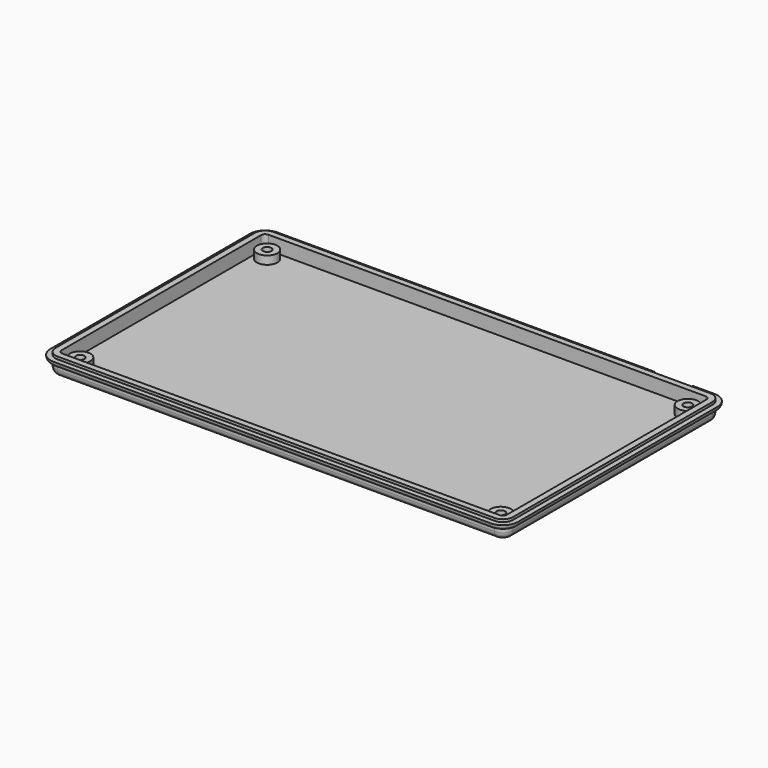
from build123d import *

# Parameters (mm, degrees)
PAD_DEPTH       = 5.5
FILLET_R        = 2
SKETCH001_R     = 1.25
POCKET_DEPTH    = 5.501
POCKET001_DEPTH = 4
SKETCH003_R     = 3
SKETCH003_R_2   = 1.25
PAD001_DEPTH    = 2.4
SKETCH004_R     = 2.25
POCKET002_DEPTH = 1.5
SKETCH005_R     = 6.25
POCKET003_DEPTH = 0.8
PAD012_DEPTH    = 1.5
FILLET004_R     = 1.4


with BuildPart() as part:
    # Sketch → Pad (new body)
    with BuildSketch(Plane.XY.offset(0.8)):
        with BuildLine():
            Line((18.151766, -21.733802), (18.151766, -94.733802))
            ThreePointArc((18.151766, -94.733802), (19.030446, -96.855123), (21.151766, -97.733802))
            Line((21.151766, -97.733802), (149.151766, -97.733802))
            ThreePointArc((149.151766, -97.733802), (151.273086, -96.855123), (152.151766, -94.733802))
            Line((152.151766, -94.733802), (152.151766, -21.733802))
            ThreePointArc((152.151766, -21.733802), (151.273086, -19.612482), (149.151766, -18.733802))
            Line((149.151766, -18.733802), (21.151766, -18.733802))
            ThreePointArc((21.151766, -18.733802), (19.030446, -19.612482), (18.151766, -21.733802))
        make_face()
    extrude(amount=-PAD_DEPTH)

    # Fillet
    fillet_edges = [part.edges().sort_by_distance(p)[0] for p in [
        (85.151766, -97.733802, -4.7),
    ]]
    fillet(fillet_edges, radius=FILLET_R)

    # Sketch001 (on Face4 of Fillet) → Pocket (cut, through all)
    with BuildSketch(Plane.XY.offset(0.8)):
        with Locations((23.556766, -24.019802)):
            Circle(SKETCH001_R)
        with Locations((146.746766, -24.019802)):
            Circle(SKETCH001_R)
        with Locations((146.746766, -92.447802)):
            Circle(SKETCH001_R)
        with Locations((23.556766, -92.447802)):
            Circle(SKETCH001_R)
    extrude(amount=-POCKET_DEPTH, mode=Mode.SUBTRACT)

    # Sketch002 (on Face4 of Pocket) → Pocket001 (cut)
    with BuildSketch(Plane.XY.offset(0.8)):
        with BuildLine():
            Line((19.951766, -21.733802), (19.951766, -94.733802))
            ThreePointArc((19.951766, -94.733802), (20.303238, -95.58233), (21.151766, -95.933802))
            Line((21.151766, -95.933802), (149.151766, -95.933802))
            ThreePointArc((149.151766, -95.933802), (150.000294, -95.58233), (150.351766, -94.733802))
            Line((150.351766, -94.733802), (150.351766, -21.733802))
            ThreePointArc((150.351766, -21.733802), (150.000294, -20.885274), (149.151766, -20.533802))
            Line((149.151766, -20.533802), (21.151766, -20.533802))
            ThreePointArc((21.151766, -20.533802), (20.303238, -20.885274), (19.951766, -21.733802))
        make_face()
    extrude(amount=-POCKET001_DEPTH, mode=Mode.SUBTRACT)

    # Sketch003 (on Face31 of Pocket001) → Pad001 (join)
    with BuildSketch(Plane.XY.offset(-3.2)):
        with Locations((23.556766, -24.019802)):
            Circle(SKETCH003_R)
        with Locations((23.556766, -24.019802)):
            Circle(SKETCH003_R_2, mode=Mode.SUBTRACT)
        with Locations((146.746766, -24.019802)):
            Circle(SKETCH003_R)
        with Locations((146.746766, -24.019802)):
            Circle(SKETCH003_R_2, mode=Mode.SUBTRACT)
        with Locations((146.746766, -92.447802)):
            Circle(SKETCH003_R)
        with Locations((146.746766, -92.447802)):
            Circle(SKETCH003_R_2, mode=Mode.SUBTRACT)
        with Locations((23.556766, -92.447802)):
            Circle(SKETCH003_R)
        with Locations((23.556766, -92.447802)):
            Circle(SKETCH003_R_2, mode=Mode.SUBTRACT)
    extrude(amount=PAD001_DEPTH)

    # Sketch004 (on Face8 of Pad001) → Pocket002 (cut)
    with BuildSketch(Plane(origin=(0, 0, -4.7), x_dir=(1, 0, 0), z_dir=(0, 0, -1))):
        with Locations((23.556766, 92.447802)):
            Circle(SKETCH004_R)
        with Locations((146.746766, 92.447802)):
            Circle(SKETCH004_R)
        with Locations((146.746766, 24.019802)):
            Circle(SKETCH004_R)
        with Locations((23.556766, 24.019802)):
            Circle(SKETCH004_R)
    extrude(amount=-POCKET002_DEPTH, mode=Mode.SUBTRACT)

    # Sketch005 (on Face8 of Pocket002) → Pocket003 (cut)
    with BuildSketch(Plane(origin=(0, 0, -4.7), x_dir=(1, 0, 0), z_dir=(0, 0, -1))):
        with Locations((33.151766, 88.733802)):
            Circle(SKETCH005_R)
        with Locations((137.151766, 88.733802)):
            Circle(SKETCH005_R)
        with Locations((137.151766, 27.733802)):
            Circle(SKETCH005_R)
        with Locations((33.151766, 27.733802)):
            Circle(SKETCH005_R)
    extrude(amount=-POCKET003_DEPTH, mode=Mode.SUBTRACT)

    # Sketch024 (on Face4 of Pocket003) → Pad012 (join)
    with BuildSketch(Plane.XY.offset(0.05)):
        with BuildLine():
            ThreePointArc((152.151766, -21.733802), (151.273086, -19.612482), (149.151766, -18.733802))
            Line((142.736766, -18.733802), (149.151766, -18.733802))
            Line((142.736766, -17.233802), (142.736766, -18.733802))
            Line((142.736766, -17.233802), (149.151766, -17.233802))
            ThreePointArc((153.651766, -21.733802), (152.333746, -18.551822), (149.151766, -17.233802))
            Line((153.651766, -21.733802), (153.651766, -94.733802))
            ThreePointArc((149.151766, -99.233802), (152.333746, -97.915783), (153.651766, -94.733802))
            Line((149.151766, -99.233802), (21.151766, -99.233802))
            ThreePointArc((16.651766, -94.733802), (17.969785, -97.915783), (21.151766, -99.233802))
            Line((16.651766, -94.733802), (16.651766, -21.733802))
            ThreePointArc((21.151766, -17.233802), (17.969785, -18.551822), (16.651766, -21.733802))
            Line((21.151766, -17.233802), (131.736766, -17.233802))
            Line((131.736766, -17.233802), (131.736766, -18.733802))
            Line((21.151766, -18.733802), (131.736766, -18.733802))
            ThreePointArc((21.151766, -18.733802), (19.030446, -19.612482), (18.151766, -21.733802))
            Line((18.151766, -94.733802), (18.151766, -21.733802))
            ThreePointArc((18.151766, -94.733802), (19.030446, -96.855123), (21.151766, -97.733802))
            Line((149.151766, -97.733802), (21.151766, -97.733802))
            ThreePointArc((149.151766, -97.733802), (151.273086, -96.855123), (152.151766, -94.733802))
            Line((152.151766, -21.733802), (152.151766, -94.733802))
        make_face()
    extrude(amount=-PAD012_DEPTH)

    # Fillet004
    fillet004_edges = [part.edges().sort_by_distance(p)[0] for p in [
        (16.651766, -58.233802, -1.45),
    ]]
    fillet(fillet004_edges, radius=FILLET004_R)


solid = part.part
